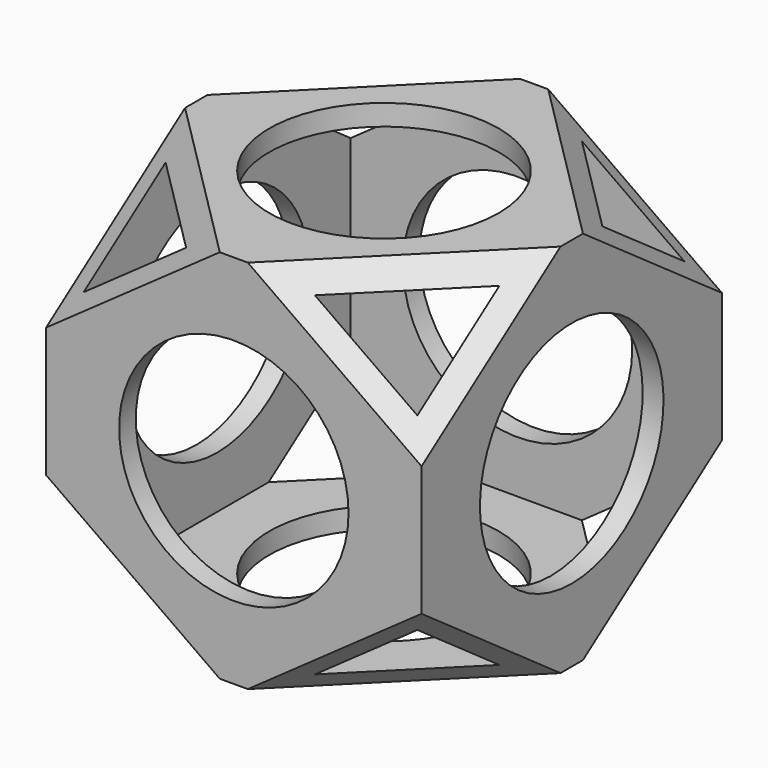
from build123d import *

# Parameters (mm, degrees)
SKETCH_W                            = 90
SKETCH_H                            = 90
PAD_DEPTH                           = 45
SKETCH001_W                         = 80
SKETCH001_H                         = 80
POCKET_DEPTH                        = 40
SKETCH002_R                         = 27.5
POCKET001_DEPTH                     = 356.770145
POCKET001_DEPTH_BACK                = 356.770145
SKETCH002_POLARPATTERN_2_R          = 27.5
POCKET001_POLARPATTERN_2_DEPTH      = 356.770145
POCKET001_POLARPATTERN_2_DEPTH_BACK = 356.770145
SKETCH002_POLARPATTERN_3_R          = 27.5
POCKET001_POLARPATTERN_3_DEPTH      = 356.770145
POCKET001_POLARPATTERN_3_DEPTH_BACK = 356.770145
SKETCH002_POLARPATTERN_4_R          = 27.5
POCKET001_POLARPATTERN_4_DEPTH      = 356.770145
POCKET001_POLARPATTERN_4_DEPTH_BACK = 356.770145
POLARPATTERN001_COUNT               = 4
POCKET002_DEPTH                     = 375.409757
POCKET002_DEPTH_BACK                = 375.409757


with BuildPart() as part:
    # Sketch → Pad (new body, symmetric)
    with BuildSketch(Plane.XY):
        Rectangle(SKETCH_W, SKETCH_H)
    extrude(amount=PAD_DEPTH, both=True)

    # Sketch001 → Pocket (cut, symmetric)
    with BuildSketch(Plane.XY):
        Rectangle(SKETCH001_W, SKETCH001_H)
    extrude(amount=POCKET_DEPTH, both=True, mode=Mode.SUBTRACT)

    # Sketch002 → Pocket001 (cut, two sides)
    with BuildSketch(Plane.XY) as pocket001_sk:
        Circle(SKETCH002_R)
    pocket001 = extrude(amount=-POCKET001_DEPTH, mode=Mode.SUBTRACT) + extrude(pocket001_sk.sketch, amount=POCKET001_DEPTH_BACK, mode=Mode.SUBTRACT)

    # Sketch002 PolarPattern 2 → Pocket001 PolarPattern 2 (cut, two sides)
    with BuildSketch(Plane(origin=(0, 0, 0), x_dir=(0, 0, -1), z_dir=(1, 0, 0))) as pocket001_polarpattern_2_sk:
        Circle(SKETCH002_POLARPATTERN_2_R)
    pocket001_polarpattern_2 = extrude(amount=-POCKET001_POLARPATTERN_2_DEPTH, mode=Mode.SUBTRACT) + extrude(pocket001_polarpattern_2_sk.sketch, amount=POCKET001_POLARPATTERN_2_DEPTH_BACK, mode=Mode.SUBTRACT)

    # Sketch002 PolarPattern 3 → Pocket001 PolarPattern 3 (cut, two sides)
    with BuildSketch(Plane(origin=(0, 0, 0), x_dir=(-1, 0, 0), z_dir=(0, 0, -1))) as pocket001_polarpattern_3_sk:
        Circle(SKETCH002_POLARPATTERN_3_R)
    pocket001_polarpattern_3 = extrude(amount=-POCKET001_POLARPATTERN_3_DEPTH, mode=Mode.SUBTRACT) + extrude(pocket001_polarpattern_3_sk.sketch, amount=POCKET001_POLARPATTERN_3_DEPTH_BACK, mode=Mode.SUBTRACT)

    # Sketch002 PolarPattern 4 → Pocket001 PolarPattern 4 (cut, two sides)
    with BuildSketch(Plane.ZY) as pocket001_polarpattern_4_sk:
        Circle(SKETCH002_POLARPATTERN_4_R)
    pocket001_polarpattern_4 = extrude(amount=-POCKET001_POLARPATTERN_4_DEPTH, mode=Mode.SUBTRACT) + extrude(pocket001_polarpattern_4_sk.sketch, amount=POCKET001_POLARPATTERN_4_DEPTH_BACK, mode=Mode.SUBTRACT)

    # PolarPattern001: Pocket001, Pocket001 PolarPattern 2, Pocket001 PolarPattern 3, Pocket001 PolarPattern 4 ×4 about axis
    polarpattern001_axis = Axis((0, 0, 0), (1, 0, 0))
    for i in range(1, POLARPATTERN001_COUNT):
        add(pocket001.rotate(polarpattern001_axis, i * 360 / POLARPATTERN001_COUNT), mode=Mode.SUBTRACT)
        add(pocket001_polarpattern_2.rotate(polarpattern001_axis, i * 360 / POLARPATTERN001_COUNT), mode=Mode.SUBTRACT)
        add(pocket001_polarpattern_3.rotate(polarpattern001_axis, i * 360 / POLARPATTERN001_COUNT), mode=Mode.SUBTRACT)
        add(pocket001_polarpattern_4.rotate(polarpattern001_axis, i * 360 / POLARPATTERN001_COUNT), mode=Mode.SUBTRACT)

    # Sketch003 (on DatumPlane) → Pocket002 (cut, two sides)
    with BuildSketch(Plane(origin=(0, 0, 0), x_dir=(0, 0, 1), z_dir=(-0.707107, 0.707107, 0))) as pocket002_sk:
        Polygon((-45, 63.63961), (-45, 34.195959), (-15.556349, 63.63961), align=None)
        Polygon((15.556349, 63.63961), (45, 63.63961), (45, 34.195959), align=None)
        Polygon((45, -34.195959), (45, -63.63961), (15.556349, -63.63961), align=None)
        Polygon((-45, -63.63961), (-45, -34.195959), (-15.556349, -63.63961), align=None)
    pocket002 = extrude(amount=-POCKET002_DEPTH, mode=Mode.SUBTRACT) + extrude(pocket002_sk.sketch, amount=POCKET002_DEPTH_BACK, mode=Mode.SUBTRACT)

    # Mirrored: Pocket002 across YZ
    add(pocket002.mirror(Plane.YZ), mode=Mode.SUBTRACT)


solid = part.part
